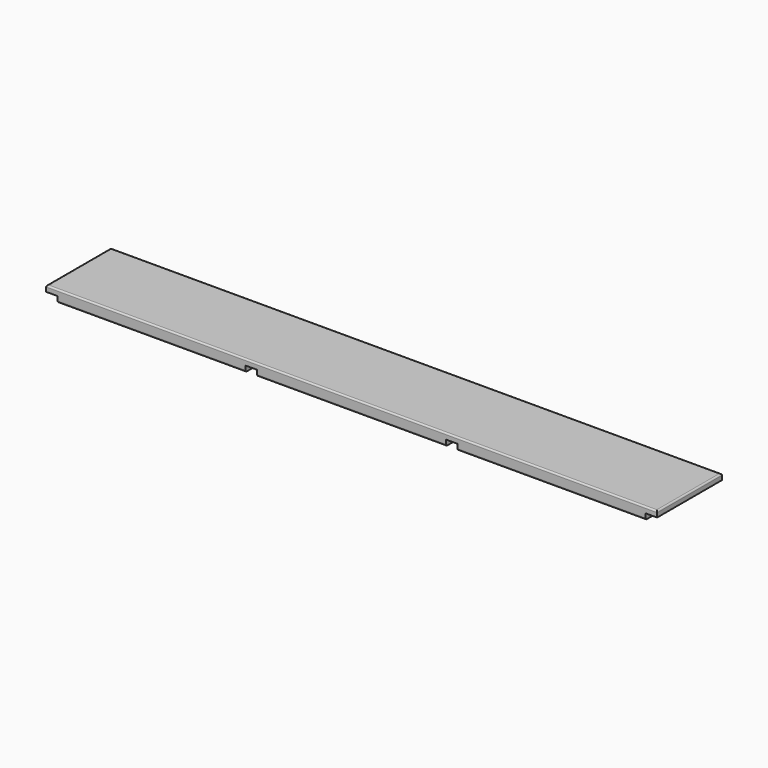
from build123d import *

# Parameters (mm, degrees)
F0_W     = 2000
F0_H     = 265
F1_DEPTH = 38
F2_R     = 5
F3_W     = 44.824789
F3_H     = 380.666598
F3_W_2   = 70.77609
F3_H_2   = 364.249266
F4_DEPTH = 19
F5_W     = 38
F5_H     = 342.808559
F5_H_2   = 434.554458
F6_DEPTH = 19


with BuildPart() as f1:
    # F0 (on Top) → F1 (new body)
    with BuildSketch(Plane.XY):
        with Locations((2.617415, -379.390822)):
            Rectangle(F0_W, F0_H)
    extrude(amount=F1_DEPTH)

    # F2
    f2_edges = [f1.edges().sort_by_distance(p)[0] for p in [
        (2.617415, -246.890822, 38),
        (-997.382585, -379.390822, 38),
        (2.617415, -511.890822, 38),
        (1002.617415, -379.390822, 38),
        (2.617415, -246.890822, 0),
        (-997.382585, -379.390822, 0),
        (2.617415, -511.890822, 0),
        (1002.617415, -379.390822, 0),
    ]]
    fillet(f2_edges, radius=F2_R)

    # F3 (on face) → F4 (cut)
    with BuildSketch(Plane(origin=(0, 0, 0), x_dir=(1, 0, 0), z_dir=(0, 0, -1))):
        with Locations((-981.794979, 384.322472)):
            Rectangle(F3_W, F3_H)
        with Locations((1000.00546, 386.361368)):
            Rectangle(F3_W_2, F3_H_2)
    extrude(amount=-F4_DEPTH, mode=Mode.SUBTRACT)

    # F5 (on face) → F6 (cut)
    with BuildSketch(Plane(origin=(0, 0, 0), x_dir=(1, 0, 0), z_dir=(0, 0, -1))):
        with Locations((-325.382585, 353.463552)):
            Rectangle(F5_W, F5_H)
        with Locations((330.617415, 355.673134)):
            Rectangle(F5_W, F5_H_2)
    extrude(amount=-F6_DEPTH, mode=Mode.SUBTRACT)


solid = f1.part
